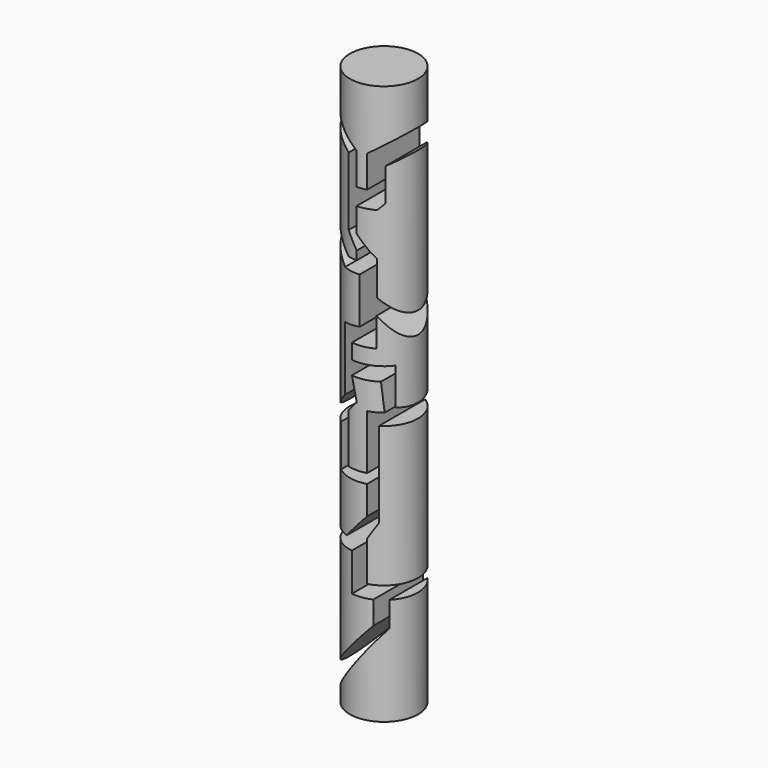
from build123d import *

# Parameters (mm, degrees)
F0_R     = 10.675430612
F1_DEPTH = 137.16
F2_DEPTH = 38.1
F4_DEPTH = 17.78


with BuildPart() as f1:
    # F0 (on Top) → F1 (new body)
    with BuildSketch(Plane.XY):
        Circle(F0_R)
    extrude(amount=-F1_DEPTH)

    # F2 (add): a face of the model
    f2_faces = [f1.faces().sort_by_distance(p)[0] for p in [
        (0, 0, 0),
    ]]
    extrude(f2_faces, amount=F2_DEPTH)

    # F3 (on Front) → F4 (cut, symmetric)
    with BuildSketch(Plane.XZ):
        Polygon((15.7361086458, 21.5601604432), (11.8985436857, 25.6116390228), (2.9173363, 19.1722828895), (2.9173363, 9.1743338853), (0, 9.1743338853), (0, 19.1722828895), (-17.0550644398, 32.3716513813), (-15.3241287917, 26.0248854756), (-2.8229181189, 17.5625272095), (-2.8229181189, -3.7856895942), (0, -8.4015205503), (0, -11.0940886661), (-2.8229181189, -11.0940886661), (-13.7855187058, 0), (-17.0550644398, -8.4015205503), (-13.9778433368, -6.2859314494), (-4.392595496, -14.7255985066), (0.8731535636, -14.7255985066), (0.8731535636, -29.1371215135), (-4.392595496, -29.8299845308), (-4.392595496, -49.9350316823), (-12.6116908069, -59.2697678805), (-6.8503268994, -58.7706156075), (-6.8503268994, -71.9678923488), (2.9173363, -71.9678923488), (2.9173363, -80.9010639787), (-3.6802912408, -88.3942381419), (-13.9778433368, -88.3942381419), (-13.6558805862, -92.110427912), (-1.5746362042, -91.662183404), (-1.5746362042, -103.5782471299), (4.4348337688, -103.5782471299), (4.4348337688, -110.8033806086), (-17.0550644398, -135.2102676343), (-13.9778433368, -140.0423496962), (7.6496228576, -111.4576309919), (7.6496228576, -103.5451963544), (17.0829258859, -103.5451963544), (16.7356515435, -99.5368526672), (2.9173363, -99.5368526672), (2.9173363, -87.0497524738), (5.6630028412, -82.3548957705), (5.6630028412, -55.5720552802), (13.8188395649, -55.5720552802), (13.8188395649, -51.9570671022), (8.6516765878, -50.6781153381), (8.6516765878, -39.0876196325), (-1.5746362042, -39.0876196325), (-1.5746362042, -34.3119315803), (5.1792738959, -34.3119315803), (5.1792738959, -25.212617591), (12.1595710516, -34.4365797937), (15.5135185486, -30.6273752617), (5.2087670282, -20.1990260627), (5.2087670282, -9.4788996503), (0, -3.7856895942), (0, 3.9081033319), (5.2905785851, 3.9081033319), (6.9777617314, 5.8243007956), (6.9777617314, 16.1294173449), align=None)
        Polygon((0, -50.2383581229), (-1.5746362042, -43.3530472219), (6.0701598413, -43.3530472219), (6.8093192667, -51.8846450228), (2.9173363, -51.8846450228), (2.9173363, -68.9763724804), (-2.8229181189, -68.9763724804), (-2.8229181189, -53.4444525838), align=None, mode=Mode.SUBTRACT)
    extrude(amount=F4_DEPTH, both=True, mode=Mode.SUBTRACT)


solid = f1.part
